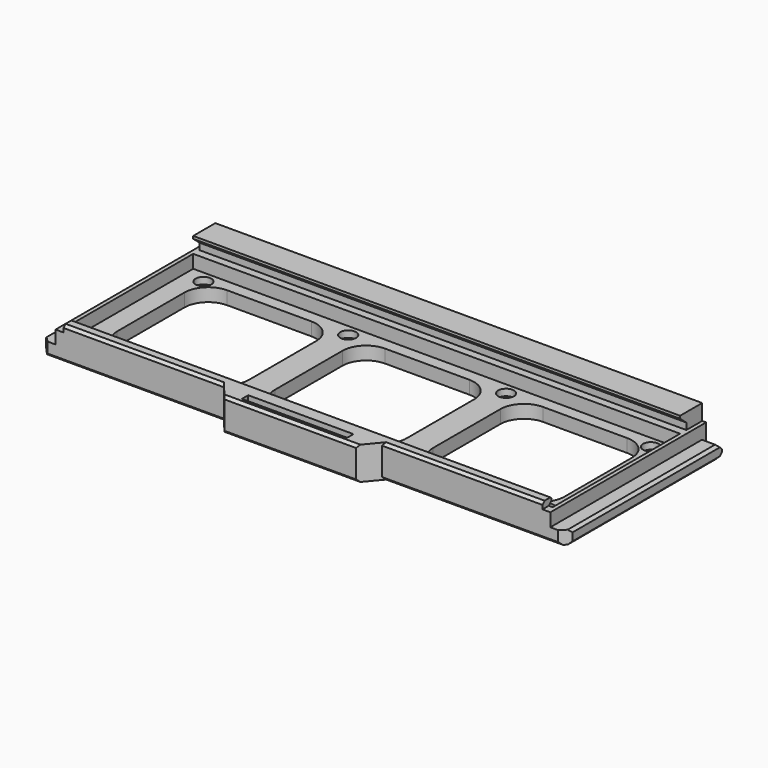
from build123d import *

# Parameters (mm, degrees)
SKETCH_W        = 200
SKETCH_H        = 80
PAD_DEPTH       = 5
SKETCH001_W     = 200
SKETCH001_H     = 80
SKETCH001_W_2   = 185
SKETCH001_H_2   = 60.5
PAD001_DEPTH    = 5
SKETCH002_W     = 185
SKETCH002_H     = 10.5
PAD002_DEPTH    = 6
SKETCH003_W     = 182
SKETCH003_H     = 10.25
PAD003_DEPTH    = 2.5
POCKET_DEPTH    = 192.501
SKETCH005_R     = 1.6
POCKET001_DEPTH = 5
SKETCH006_R     = 3
POCKET002_DEPTH = 2.5
SKETCH007_W     = 6
SKETCH007_H     = 80
POCKET003_DEPTH = 5
CHAMFER_SIZE    = 2
SKETCH008_W     = 40
SKETCH008_H     = 3
POCKET004_DEPTH = 5
POCKET005_DEPTH = 12.501
CHAMFER001_SIZE = 3
CHAMFER002_SIZE = 1
CHAMFER003_SIZE = 1
CHAMFER004_SIZE = 1
CHAMFER005_SIZE = 1.24
CHAMFER006_SIZE = 0.5


with BuildPart() as part:
    # Sketch → Pad (new body)
    with BuildSketch(Plane.XY):
        Rectangle(SKETCH_W, SKETCH_H)
    extrude(amount=PAD_DEPTH)

    # Sketch001 (on Face6 of Pad) → Pad001 (join)
    with BuildSketch(Plane.XY.offset(5)):
        Rectangle(SKETCH001_W, SKETCH001_H)
        with Locations((0, -0.75)):
            Rectangle(SKETCH001_W_2, SKETCH001_H_2, mode=Mode.SUBTRACT)
    extrude(amount=PAD001_DEPTH)

    # Sketch002 (on Face3 of Pad001) → Pad002 (join)
    with BuildSketch(Plane.XY.offset(10)):
        with Locations((0, 34.75)):
            Rectangle(SKETCH002_W, SKETCH002_H)
    extrude(amount=PAD002_DEPTH)

    # Sketch003 (on Face5 of Pad002) → Pad003 (join)
    with BuildSketch(Plane.XY.offset(10)):
        with Locations((0, -34.875)):
            Rectangle(SKETCH003_W, SKETCH003_H)
    extrude(amount=PAD003_DEPTH)

    # Sketch004 (on Face7 of Pad003) → Pocket (cut, through all)
    with BuildSketch(Plane(origin=(-92.5, 0, 0), x_dir=(0, -1, 0), z_dir=(-1, 0, 0))):
        Polygon((-32.5, 12.5), (-32.5, 10), (-29.5, 10), (-29.5, 15), align=None)
    extrude(amount=-POCKET_DEPTH, mode=Mode.SUBTRACT)

    # Sketch005 (on Face21 of Pocket) → Pocket001 (cut)
    with BuildSketch(Plane.XY.offset(5)):
        with Locations((-85, -25)):
            Circle(SKETCH005_R)
        with Locations((-30, -25)):
            Circle(SKETCH005_R)
        with Locations((30, -25)):
            Circle(SKETCH005_R)
        with Locations((85, -25)):
            Circle(SKETCH005_R)
        with Locations((85, 25)):
            Circle(SKETCH005_R)
        with Locations((30, 25)):
            Circle(SKETCH005_R)
        with Locations((-30, 25)):
            Circle(SKETCH005_R)
        with Locations((-85, 25)):
            Circle(SKETCH005_R)
        with BuildLine():
            Line((-25, 16), (-25, -16))
            ThreePointArc((-25, -16), (-22.363961, -22.363961), (-16, -25))
            Line((-16, -25), (16, -25))
            ThreePointArc((16, -25), (22.363961, -22.363961), (25, -16))
            Line((25, -16), (25, 16))
            ThreePointArc((25, 16), (22.363961, 22.363961), (16, 25))
            Line((16, 25), (-16, 25))
            ThreePointArc((-16, 25), (-22.363961, 22.363961), (-25, 16))
        make_face()
        with BuildLine():
            Line((-85, 16), (-85, -16))
            ThreePointArc((-85, -16), (-82.363961, -22.363961), (-76, -25))
            Line((-76, -25), (-44, -25))
            ThreePointArc((-44, -25), (-37.636039, -22.363961), (-35, -16))
            Line((-35, -16), (-35, 16))
            ThreePointArc((-35, 16), (-37.636039, 22.363961), (-44, 25))
            Line((-44, 25), (-76, 25))
            ThreePointArc((-76, 25), (-82.363961, 22.363961), (-85, 16))
        make_face()
        with BuildLine():
            Line((35, 16), (35, -16))
            ThreePointArc((35, -16), (37.636039, -22.363961), (44, -25))
            Line((44, -25), (76, -25))
            ThreePointArc((76, -25), (82.363961, -22.363961), (85, -16))
            Line((85, -16), (85, 16))
            ThreePointArc((85, 16), (82.363961, 22.363961), (76, 25))
            Line((76, 25), (44, 25))
            ThreePointArc((44, 25), (37.636039, 22.363961), (35, 16))
        make_face()
    extrude(amount=-POCKET001_DEPTH, mode=Mode.SUBTRACT)

    # Sketch006 (on Face45 of Pocket001) → Pocket002 (cut)
    with BuildSketch(Plane.XY.offset(5)):
        with Locations((-85, 25)):
            Circle(SKETCH006_R)
        with Locations((-85, -25)):
            Circle(SKETCH006_R)
        with Locations((-30, -25)):
            Circle(SKETCH006_R)
        with Locations((-30, 25)):
            Circle(SKETCH006_R)
        with Locations((30, 25)):
            Circle(SKETCH006_R)
        with Locations((30, -25)):
            Circle(SKETCH006_R)
        with Locations((85, -25)):
            Circle(SKETCH006_R)
        with Locations((85, 25)):
            Circle(SKETCH006_R)
    extrude(amount=-POCKET002_DEPTH, mode=Mode.SUBTRACT)

    # Sketch007 (on Face38 of Pocket002) → Pocket003 (cut)
    with BuildSketch(Plane.XY.offset(10)):
        with Locations((-97, 0)):
            Rectangle(SKETCH007_W, SKETCH007_H)
        with Locations((97, 0)):
            Rectangle(SKETCH007_W, SKETCH007_H)
    extrude(amount=-POCKET003_DEPTH, mode=Mode.SUBTRACT)

    # Chamfer
    chamfer_edges = [part.edges().sort_by_distance(p)[0] for p in [
        (-97, 40, 5),
        (0, 40, 0),
        (97, 40, 5),
    ]]
    chamfer(chamfer_edges, length=CHAMFER_SIZE)

    # Sketch008 (on Face44 of Chamfer) → Pocket004 (cut)
    with BuildSketch(Plane.XY.offset(12.5)):
        with Locations((0, -36.5)):
            Rectangle(SKETCH008_W, SKETCH008_H)
    extrude(amount=-POCKET004_DEPTH, mode=Mode.SUBTRACT)

    # Sketch009 (on Face44 of Pocket004) → Pocket005 (cut, through all)
    with BuildSketch(Plane.XY.offset(12.5)):
        Polygon((-100, -34), (-100, -40), (-25, -40), (-30, -34), align=None)
        Polygon((30, -34), (25, -40), (100, -40), (100, -34), align=None)
    extrude(amount=-POCKET005_DEPTH, mode=Mode.SUBTRACT)

    # Chamfer001
    chamfer001_edges = [part.edges().sort_by_distance(p)[0] for p in [
        (-100, -34, 2.5),
        (100, -34, 2.5),
    ]]
    chamfer(chamfer001_edges, length=CHAMFER001_SIZE)

    # Chamfer002
    chamfer002_edges = [part.edges().sort_by_distance(p)[0] for p in [
        (-60.5, -34, 12.5),
        (-63.5, -34, 0),
        (60.5, -34, 12.5),
        (63.5, -34, 0),
    ]]
    chamfer(chamfer002_edges, length=CHAMFER002_SIZE)

    # Chamfer003
    chamfer003_edges = [part.edges().sort_by_distance(p)[0] for p in [
        (0, -40, 12.5),
        (0, -40, 0),
    ]]
    chamfer(chamfer003_edges, length=CHAMFER003_SIZE)

    # Chamfer004
    chamfer004_edges = [part.edges().sort_by_distance(p)[0] for p in [
        (100, 3.5, 5),
        (100, 3.5, 0),
        (-100, 3.5, 5),
        (-100, 3.5, 0),
    ]]
    chamfer(chamfer004_edges, length=CHAMFER004_SIZE)

    # Chamfer005
    chamfer005_edges = [part.edges().sort_by_distance(p)[0] for p in [
        (0, -29.75, 10),
    ]]
    chamfer(chamfer005_edges, length=CHAMFER005_SIZE)

    # Chamfer006
    chamfer006_edges = [part.edges().sort_by_distance(p)[0] for p in [
        (0, -29.75, 12.5),
    ]]
    chamfer(chamfer006_edges, length=CHAMFER006_SIZE)


solid = part.part
